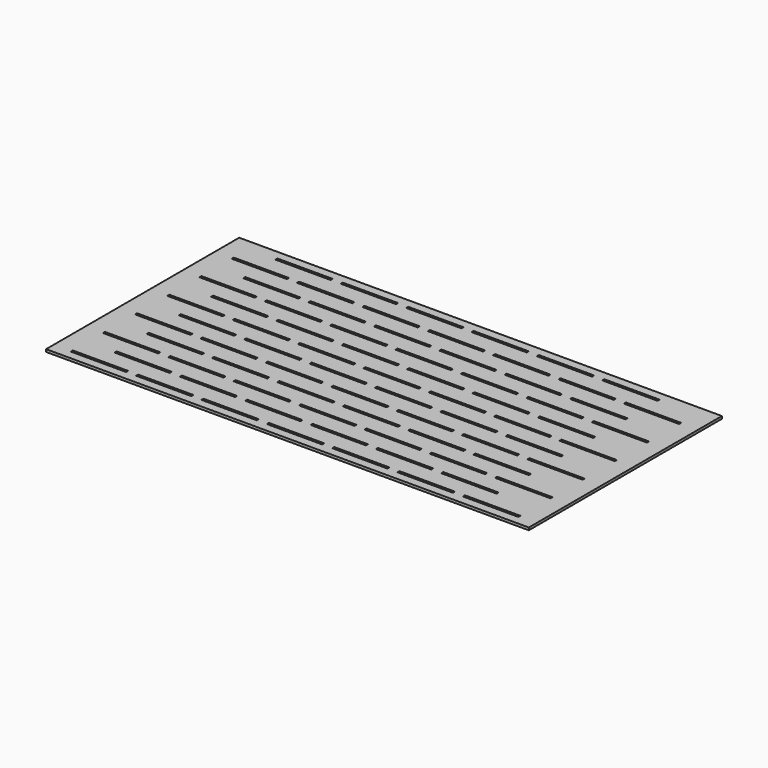
from build123d import *

# Parameters (mm, degrees)
F0_W     = 609.6
F0_H     = 304.8
F0_W_2   = 69.85
F0_H_2   = 3.175
F1_DEPTH = 3.175


with BuildPart() as f1:
    # F0 (on Top) → F1 (new body)
    with BuildSketch(Plane.XY):
        with Locations((304.8, 152.4)):
            Rectangle(F0_W, F0_H)
        with Locations((57.15, 12.7)):
            Rectangle(F0_W_2, F0_H_2, mode=Mode.SUBTRACT)
        with Locations((139.7, 12.7)):
            Rectangle(F0_W_2, F0_H_2, mode=Mode.SUBTRACT)
        with Locations((92.075, 38.1)):
            Rectangle(F0_W_2, F0_H_2, mode=Mode.SUBTRACT)
        with Locations((57.15, 63.5)):
            Rectangle(F0_W_2, F0_H_2, mode=Mode.SUBTRACT)
        with Locations((139.7, 63.5)):
            Rectangle(F0_W_2, F0_H_2, mode=Mode.SUBTRACT)
        with Locations((222.25, 12.7)):
            Rectangle(F0_W_2, F0_H_2, mode=Mode.SUBTRACT)
        with Locations((174.625, 38.1)):
            Rectangle(F0_W_2, F0_H_2, mode=Mode.SUBTRACT)
        with Locations((257.175, 38.1)):
            Rectangle(F0_W_2, F0_H_2, mode=Mode.SUBTRACT)
        with Locations((222.25, 63.5)):
            Rectangle(F0_W_2, F0_H_2, mode=Mode.SUBTRACT)
        with Locations((92.075, 88.9)):
            Rectangle(F0_W_2, F0_H_2, mode=Mode.SUBTRACT)
        with Locations((57.15, 114.3)):
            Rectangle(F0_W_2, F0_H_2, mode=Mode.SUBTRACT)
        with Locations((139.7, 114.3)):
            Rectangle(F0_W_2, F0_H_2, mode=Mode.SUBTRACT)
        with Locations((92.075, 139.7)):
            Rectangle(F0_W_2, F0_H_2, mode=Mode.SUBTRACT)
        with Locations((174.625, 88.9)):
            Rectangle(F0_W_2, F0_H_2, mode=Mode.SUBTRACT)
        with Locations((257.175, 88.9)):
            Rectangle(F0_W_2, F0_H_2, mode=Mode.SUBTRACT)
        with Locations((222.25, 114.3)):
            Rectangle(F0_W_2, F0_H_2, mode=Mode.SUBTRACT)
        with Locations((174.625, 139.7)):
            Rectangle(F0_W_2, F0_H_2, mode=Mode.SUBTRACT)
        with Locations((257.175, 139.7)):
            Rectangle(F0_W_2, F0_H_2, mode=Mode.SUBTRACT)
        with Locations((304.8, 12.7)):
            Rectangle(F0_W_2, F0_H_2, mode=Mode.SUBTRACT)
        with Locations((339.725, 38.1)):
            Rectangle(F0_W_2, F0_H_2, mode=Mode.SUBTRACT)
        with Locations((387.35, 12.7)):
            Rectangle(F0_W_2, F0_H_2, mode=Mode.SUBTRACT)
        with Locations((422.275, 38.1)):
            Rectangle(F0_W_2, F0_H_2, mode=Mode.SUBTRACT)
        with Locations((304.8, 63.5)):
            Rectangle(F0_W_2, F0_H_2, mode=Mode.SUBTRACT)
        with Locations((387.35, 63.5)):
            Rectangle(F0_W_2, F0_H_2, mode=Mode.SUBTRACT)
        with Locations((469.9, 12.7)):
            Rectangle(F0_W_2, F0_H_2, mode=Mode.SUBTRACT)
        with Locations((504.825, 38.1)):
            Rectangle(F0_W_2, F0_H_2, mode=Mode.SUBTRACT)
        with Locations((552.45, 12.7)):
            Rectangle(F0_W_2, F0_H_2, mode=Mode.SUBTRACT)
        with Locations((469.9, 63.5)):
            Rectangle(F0_W_2, F0_H_2, mode=Mode.SUBTRACT)
        with Locations((552.45, 63.5)):
            Rectangle(F0_W_2, F0_H_2, mode=Mode.SUBTRACT)
        with Locations((339.725, 88.9)):
            Rectangle(F0_W_2, F0_H_2, mode=Mode.SUBTRACT)
        with Locations((422.275, 88.9)):
            Rectangle(F0_W_2, F0_H_2, mode=Mode.SUBTRACT)
        with Locations((304.8, 114.3)):
            Rectangle(F0_W_2, F0_H_2, mode=Mode.SUBTRACT)
        with Locations((339.725, 139.7)):
            Rectangle(F0_W_2, F0_H_2, mode=Mode.SUBTRACT)
        with Locations((387.35, 114.3)):
            Rectangle(F0_W_2, F0_H_2, mode=Mode.SUBTRACT)
        with Locations((422.275, 139.7)):
            Rectangle(F0_W_2, F0_H_2, mode=Mode.SUBTRACT)
        with Locations((504.825, 88.9)):
            Rectangle(F0_W_2, F0_H_2, mode=Mode.SUBTRACT)
        with Locations((469.9, 114.3)):
            Rectangle(F0_W_2, F0_H_2, mode=Mode.SUBTRACT)
        with Locations((504.825, 139.7)):
            Rectangle(F0_W_2, F0_H_2, mode=Mode.SUBTRACT)
        with Locations((552.45, 114.3)):
            Rectangle(F0_W_2, F0_H_2, mode=Mode.SUBTRACT)
        with Locations((57.15, 165.1)):
            Rectangle(F0_W_2, F0_H_2, mode=Mode.SUBTRACT)
        with Locations((139.7, 165.1)):
            Rectangle(F0_W_2, F0_H_2, mode=Mode.SUBTRACT)
        with Locations((57.15, 215.9)):
            Rectangle(F0_W_2, F0_H_2, mode=Mode.SUBTRACT)
        with Locations((92.075, 190.5)):
            Rectangle(F0_W_2, F0_H_2, mode=Mode.SUBTRACT)
        with Locations((139.7, 215.9)):
            Rectangle(F0_W_2, F0_H_2, mode=Mode.SUBTRACT)
        with Locations((222.25, 165.1)):
            Rectangle(F0_W_2, F0_H_2, mode=Mode.SUBTRACT)
        with Locations((174.625, 190.5)):
            Rectangle(F0_W_2, F0_H_2, mode=Mode.SUBTRACT)
        with Locations((222.25, 215.9)):
            Rectangle(F0_W_2, F0_H_2, mode=Mode.SUBTRACT)
        with Locations((257.175, 190.5)):
            Rectangle(F0_W_2, F0_H_2, mode=Mode.SUBTRACT)
        with Locations((92.075, 241.3)):
            Rectangle(F0_W_2, F0_H_2, mode=Mode.SUBTRACT)
        with Locations((57.15, 266.7)):
            Rectangle(F0_W_2, F0_H_2, mode=Mode.SUBTRACT)
        with Locations((139.7, 266.7)):
            Rectangle(F0_W_2, F0_H_2, mode=Mode.SUBTRACT)
        with Locations((92.075, 292.1)):
            Rectangle(F0_W_2, F0_H_2, mode=Mode.SUBTRACT)
        with Locations((174.625, 241.3)):
            Rectangle(F0_W_2, F0_H_2, mode=Mode.SUBTRACT)
        with Locations((257.175, 241.3)):
            Rectangle(F0_W_2, F0_H_2, mode=Mode.SUBTRACT)
        with Locations((222.25, 266.7)):
            Rectangle(F0_W_2, F0_H_2, mode=Mode.SUBTRACT)
        with Locations((174.625, 292.1)):
            Rectangle(F0_W_2, F0_H_2, mode=Mode.SUBTRACT)
        with Locations((257.175, 292.1)):
            Rectangle(F0_W_2, F0_H_2, mode=Mode.SUBTRACT)
        with Locations((304.8, 165.1)):
            Rectangle(F0_W_2, F0_H_2, mode=Mode.SUBTRACT)
        with Locations((387.35, 165.1)):
            Rectangle(F0_W_2, F0_H_2, mode=Mode.SUBTRACT)
        with Locations((339.725, 190.5)):
            Rectangle(F0_W_2, F0_H_2, mode=Mode.SUBTRACT)
        with Locations((304.8, 215.9)):
            Rectangle(F0_W_2, F0_H_2, mode=Mode.SUBTRACT)
        with Locations((422.275, 190.5)):
            Rectangle(F0_W_2, F0_H_2, mode=Mode.SUBTRACT)
        with Locations((387.35, 215.9)):
            Rectangle(F0_W_2, F0_H_2, mode=Mode.SUBTRACT)
        with Locations((469.9, 165.1)):
            Rectangle(F0_W_2, F0_H_2, mode=Mode.SUBTRACT)
        with Locations((552.45, 165.1)):
            Rectangle(F0_W_2, F0_H_2, mode=Mode.SUBTRACT)
        with Locations((504.825, 190.5)):
            Rectangle(F0_W_2, F0_H_2, mode=Mode.SUBTRACT)
        with Locations((469.9, 215.9)):
            Rectangle(F0_W_2, F0_H_2, mode=Mode.SUBTRACT)
        with Locations((552.45, 215.9)):
            Rectangle(F0_W_2, F0_H_2, mode=Mode.SUBTRACT)
        with Locations((339.725, 241.3)):
            Rectangle(F0_W_2, F0_H_2, mode=Mode.SUBTRACT)
        with Locations((422.275, 241.3)):
            Rectangle(F0_W_2, F0_H_2, mode=Mode.SUBTRACT)
        with Locations((304.8, 266.7)):
            Rectangle(F0_W_2, F0_H_2, mode=Mode.SUBTRACT)
        with Locations((339.725, 292.1)):
            Rectangle(F0_W_2, F0_H_2, mode=Mode.SUBTRACT)
        with Locations((387.35, 266.7)):
            Rectangle(F0_W_2, F0_H_2, mode=Mode.SUBTRACT)
        with Locations((422.275, 292.1)):
            Rectangle(F0_W_2, F0_H_2, mode=Mode.SUBTRACT)
        with Locations((504.825, 241.3)):
            Rectangle(F0_W_2, F0_H_2, mode=Mode.SUBTRACT)
        with Locations((469.9, 266.7)):
            Rectangle(F0_W_2, F0_H_2, mode=Mode.SUBTRACT)
        with Locations((504.825, 292.1)):
            Rectangle(F0_W_2, F0_H_2, mode=Mode.SUBTRACT)
        with Locations((552.45, 266.7)):
            Rectangle(F0_W_2, F0_H_2, mode=Mode.SUBTRACT)
    extrude(amount=F1_DEPTH)


solid = f1.part
